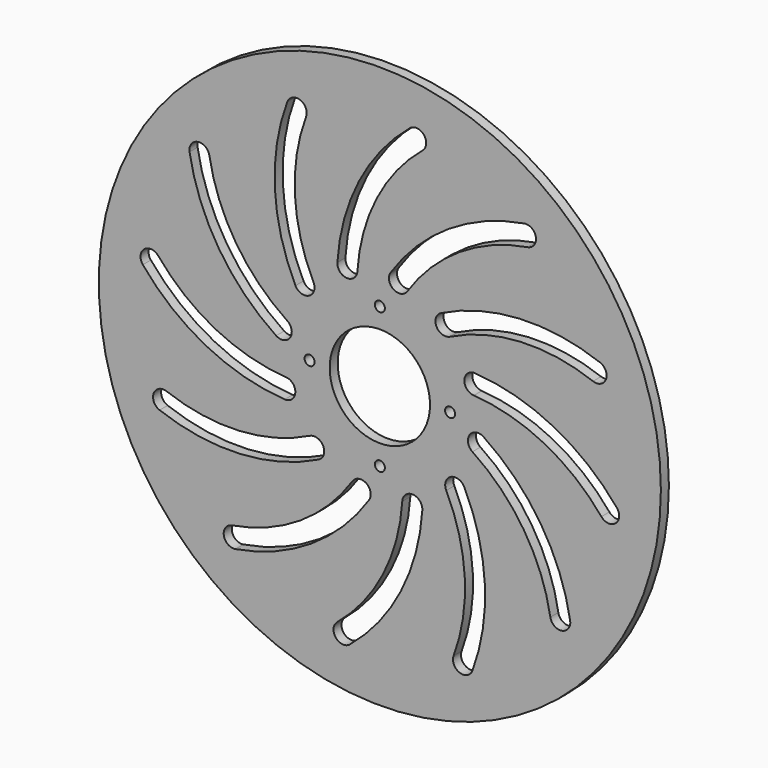
from build123d import *

# Parameters (mm, degrees)
F0_R     = 88.9
F0_R_2   = 1.5875
F0_R_3   = 15.875
F1_DEPTH = 3.175


with BuildPart() as f1:
    # F0 (on Front) → F1 (new body)
    with BuildSketch(Plane.XZ):
        Circle(F0_R)
        with BuildLine():
            ThreePointArc((13.438712, -30.112803), (6.635493, -54.919861), (-9.469491, -74.977364))
            ThreePointArc((-9.469491, -74.977364), (-13.93913, -74.54891), (-13.510676, -70.079271))
            ThreePointArc((-13.510676, -70.079271), (0.98008, -52.032162), (7.101402, -29.711554))
            ThreePointArc((7.101402, -29.711554), (10.470681, -26.743524), (13.438712, -30.112803))
        make_face(mode=Mode.SUBTRACT)
        with BuildLine():
            ThreePointArc((-19.359097, -26.694667), (-44.244249, -33.206436), (-69.667048, -29.287863))
            ThreePointArc((-69.667048, -29.287863), (-71.530815, -25.202814), (-67.445767, -23.339047))
            ThreePointArc((-67.445767, -23.339047), (-44.571135, -26.864855), (-22.18026, -21.005771))
            ThreePointArc((-22.18026, -21.005771), (-17.92523, -22.439638), (-19.359097, -26.694667))
        make_face(mode=Mode.SUBTRACT)
        with BuildLine():
            ThreePointArc((-3.418136, -32.797809), (-21.713426, -50.879741), (-45.689502, -60.197557))
            ThreePointArc((-45.689502, -60.197557), (-49.346096, -57.591685), (-46.740224, -53.935091))
            ThreePointArc((-46.740224, -53.935091), (-25.167307, -45.551214), (-8.705783, -29.281662))
            ThreePointArc((-8.705783, -29.281662), (-4.303886, -28.395912), (-3.418136, -32.797809))
        make_face(mode=Mode.SUBTRACT)
        with BuildLine():
            ThreePointArc((26.694667, -19.359097), (33.206436, -44.244249), (29.287863, -69.667048))
            ThreePointArc((29.287863, -69.667048), (25.202814, -71.530815), (23.339047, -67.445767))
            ThreePointArc((23.339047, -67.445767), (26.864855, -44.571135), (21.005771, -22.18026))
            ThreePointArc((21.005771, -22.18026), (22.439638, -17.92523), (26.694667, -19.359097))
        make_face(mode=Mode.SUBTRACT)
        with BuildLine():
            ThreePointArc((32.797809, -3.418136), (50.879741, -21.713426), (60.197557, -45.689502))
            ThreePointArc((60.197557, -45.689502), (57.591685, -49.346096), (53.935091, -46.740224))
            ThreePointArc((53.935091, -46.740224), (45.551214, -25.167307), (29.281662, -8.705783))
            ThreePointArc((29.281662, -8.705783), (28.395912, -4.303886), (32.797809, -3.418136))
        make_face(mode=Mode.SUBTRACT)
        with Locations((0, -22.225)):
            Circle(F0_R_2, mode=Mode.SUBTRACT)
        with BuildLine():
            ThreePointArc((30.112803, 13.438712), (54.919861, 6.635493), (74.977364, -9.469491))
            ThreePointArc((74.977364, -9.469491), (74.54891, -13.93913), (70.079271, -13.510676))
            ThreePointArc((70.079271, -13.510676), (52.032162, 0.98008), (29.711554, 7.101402))
            ThreePointArc((29.711554, 7.101402), (26.743524, 10.470681), (30.112803, 13.438712))
        make_face(mode=Mode.SUBTRACT)
        with BuildLine():
            ThreePointArc((-30.112803, -13.438712), (-54.919861, -6.635493), (-74.977364, 9.469491))
            ThreePointArc((-74.977364, 9.469491), (-74.54891, 13.93913), (-70.079271, 13.510676))
            ThreePointArc((-70.079271, 13.510676), (-52.032162, -0.98008), (-29.711554, -7.101402))
            ThreePointArc((-29.711554, -7.101402), (-26.743524, -10.470681), (-30.112803, -13.438712))
        make_face(mode=Mode.SUBTRACT)
        with Locations((-22.225, 0)):
            Circle(F0_R_2, mode=Mode.SUBTRACT)
        with BuildLine():
            ThreePointArc((-32.797809, 3.418136), (-50.879741, 21.713426), (-60.197557, 45.689502))
            ThreePointArc((-60.197557, 45.689502), (-57.591685, 49.346096), (-53.935091, 46.740224))
            ThreePointArc((-53.935091, 46.740224), (-45.551214, 25.167307), (-29.281662, 8.705783))
            ThreePointArc((-29.281662, 8.705783), (-28.395912, 4.303886), (-32.797809, 3.418136))
        make_face(mode=Mode.SUBTRACT)
        with BuildLine():
            ThreePointArc((-26.694667, 19.359097), (-33.206436, 44.244249), (-29.287863, 69.667048))
            ThreePointArc((-29.287863, 69.667048), (-25.202814, 71.530815), (-23.339047, 67.445767))
            ThreePointArc((-23.339047, 67.445767), (-26.864855, 44.571135), (-21.005771, 22.18026))
            ThreePointArc((-21.005771, 22.18026), (-22.439638, 17.92523), (-26.694667, 19.359097))
        make_face(mode=Mode.SUBTRACT)
        Circle(F0_R_3, mode=Mode.SUBTRACT)
        with Locations((22.225, 0)):
            Circle(F0_R_2, mode=Mode.SUBTRACT)
        with Locations((0, 22.225)):
            Circle(F0_R_2, mode=Mode.SUBTRACT)
        with BuildLine():
            ThreePointArc((3.418136, 32.797809), (21.713426, 50.879741), (45.689502, 60.197557))
            ThreePointArc((45.689502, 60.197557), (49.346096, 57.591685), (46.740224, 53.935091))
            ThreePointArc((46.740224, 53.935091), (25.167307, 45.551214), (8.705783, 29.281662))
            ThreePointArc((8.705783, 29.281662), (4.303886, 28.395912), (3.418136, 32.797809))
        make_face(mode=Mode.SUBTRACT)
        with BuildLine():
            ThreePointArc((19.359097, 26.694667), (44.244249, 33.206436), (69.667048, 29.287863))
            ThreePointArc((69.667048, 29.287863), (71.530815, 25.202814), (67.445767, 23.339047))
            ThreePointArc((67.445767, 23.339047), (44.571135, 26.864855), (22.18026, 21.005771))
            ThreePointArc((22.18026, 21.005771), (17.92523, 22.439638), (19.359097, 26.694667))
        make_face(mode=Mode.SUBTRACT)
        with BuildLine():
            ThreePointArc((-13.438712, 30.112803), (-6.635493, 54.919861), (9.469491, 74.977364))
            ThreePointArc((9.469491, 74.977364), (13.93913, 74.54891), (13.510676, 70.079271))
            ThreePointArc((13.510676, 70.079271), (-0.98008, 52.032162), (-7.101402, 29.711554))
            ThreePointArc((-7.101402, 29.711554), (-10.470681, 26.743524), (-13.438712, 30.112803))
        make_face(mode=Mode.SUBTRACT)
    extrude(amount=-F1_DEPTH)


solid = f1.part
